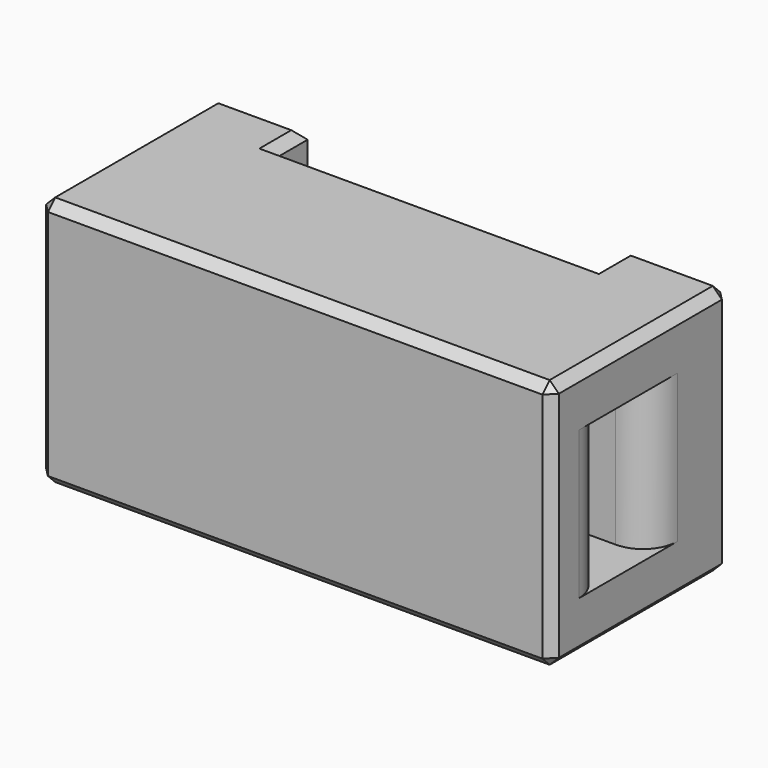
from build123d import *

# Parameters (mm, degrees)
PAD_DEPTH    = 11
POCKET_DEPTH = 3.25
FILLET_R     = 1.5
FILLET001_R  = 1
FILLET002_R  = 0.4
CHAMFER_SIZE = 0.4


with BuildPart() as part:
    # Sketch → Pad (new body)
    with BuildSketch(Plane.XY):
        Polygon((-7.25, 1.75), (-7.25, 0), (7.25, 0), (7.25, 1.75), (11.25, 1.75), (11.25, -8), (-11.25, -8), (-11.25, 1.75), align=None)
    extrude(amount=PAD_DEPTH)

    # Sketch001 (on DatumPlane) → Pocket (cut, symmetric)
    with BuildSketch(Plane.XY.offset(5.5)):
        Polygon((-1.5, 0), (-3.5, 0), (-6, -2.6), (-11.25, -2.6), (-11.25, -5), (0, -5), (0, -2.6), (-4, -2.6), align=None)
    pocket = extrude(amount=POCKET_DEPTH, both=True, mode=Mode.SUBTRACT)

    # Mirrored: Pocket across Sketch001 V_Axis
    add(pocket.mirror(Plane(origin=(0, 0, 5.5), x_dir=(0, 0, 1), z_dir=(1, 0, 0))), mode=Mode.SUBTRACT)

    # Fillet
    fillet_edges = [part.edges().sort_by_distance(p)[0] for p in [
        (11.25, -2.6, 5.5),
        (11.25, -5, 5.5),
        (-11.25, -2.6, 5.5),
        (-11.25, -5, 5.5),
    ]]
    fillet(fillet_edges, radius=FILLET_R)

    # Fillet001
    fillet001_edges = [part.edges().sort_by_distance(p)[0] for p in [
        (6, -2.6, 5.5),
        (4, -2.6, 5.5),
        (-6, -2.6, 5.5),
        (-4, -2.6, 5.5),
    ]]
    fillet(fillet001_edges, radius=FILLET001_R)

    # Fillet002
    fillet002_edges = [part.edges().sort_by_distance(p)[0] for p in [
        (3.5, 0, 5.5),
        (-3.5, 0, 5.5),
    ]]
    fillet(fillet002_edges, radius=FILLET002_R)

    # Chamfer
    chamfer_edges = [part.edges().sort_by_distance(p)[0] for p in [
        (11.25, -8, 5.5),
        (-11.25, -8, 5.5),
        (0, -8, 0),
        (0, -8, 11),
        (11.25, -3.125, 11),
        (11.25, -3.125, 0),
        (-7.25, 0.875, 11),
        (-7.25, 0.875, 0),
        (0, 0, 11),
        (0, 0, 0),
        (7.25, 0.875, 0),
        (9.25, 1.75, 0),
        (9.25, 1.75, 11),
        (11.25, 1.75, 5.5),
        (-9.25, 1.75, 0),
        (-11.25, -3.125, 0),
        (-11.25, 1.75, 5.5),
        (-9.25, 1.75, 11),
        (-11.25, -3.125, 11),
    ]]
    chamfer(chamfer_edges, length=CHAMFER_SIZE)


solid = part.part
